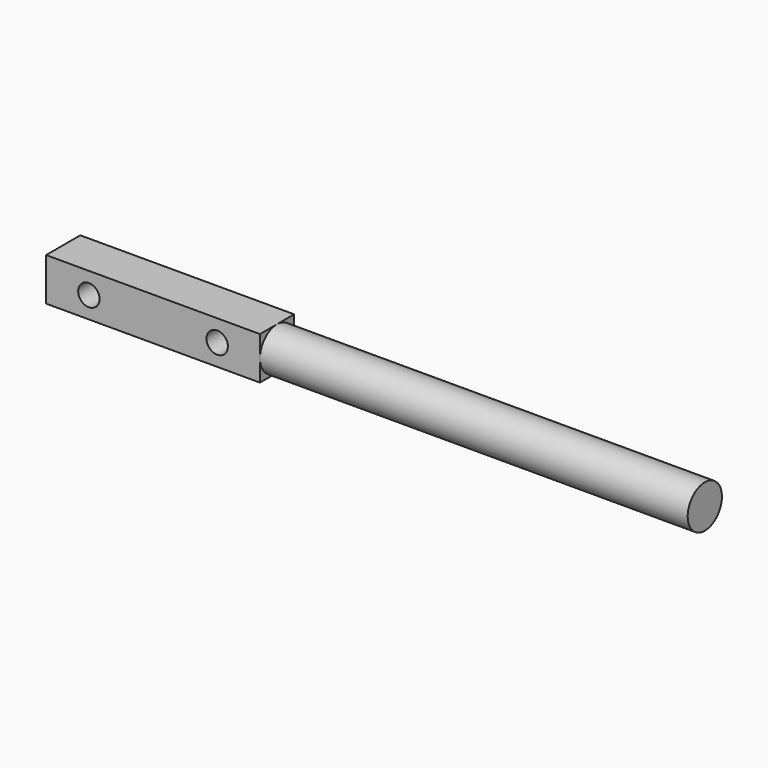
from build123d import *

# Parameters (mm, degrees)
F0_W     = 12.7
F0_H     = 12.7
F1_DEPTH = 63.5
F2_R     = 6.35
F3_DEPTH = 127
F4_R     = 3.175
F5_DEPTH = 25.4


with BuildPart() as f1:
    # F0 (on Right) → F1 (new body)
    with BuildSketch(Plane.YZ):
        Rectangle(F0_W, F0_H)
    extrude(amount=-F1_DEPTH)

    # F2 (on face) → F3 (join)
    with BuildSketch(Plane.YZ):
        Circle(F2_R)
    extrude(amount=F3_DEPTH)

    # F4 (on face) → F5 (cut)
    with BuildSketch(Plane.XZ.offset(6.35)):
        with Locations((-50.8, 0)):
            Circle(F4_R)
        with Locations((-12.7, 0)):
            Circle(F4_R)
    extrude(amount=-F5_DEPTH, mode=Mode.SUBTRACT)


solid = f1.part
